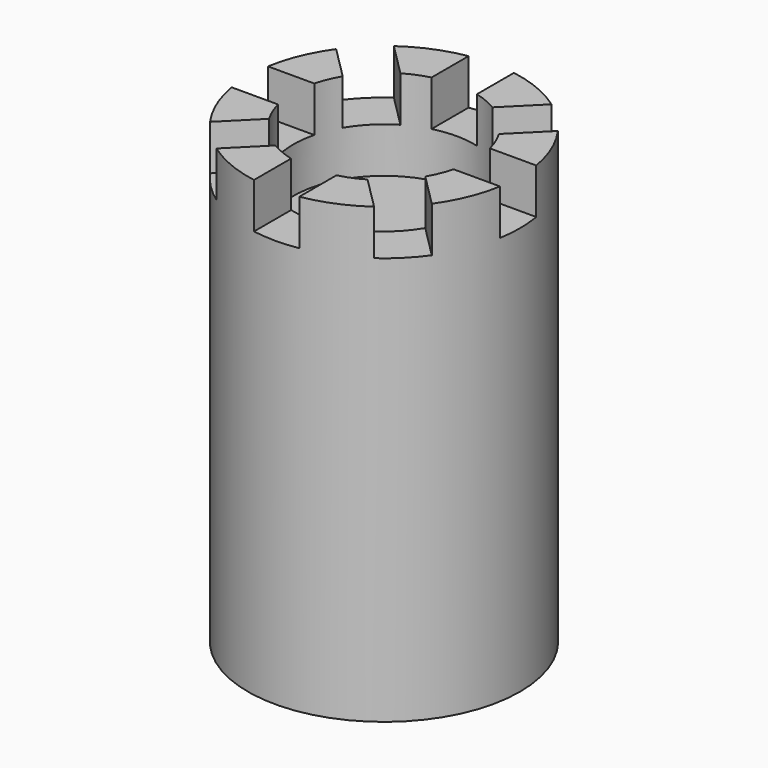
from build123d import *

# Parameters (mm, degrees)
BOX_W             = 20
BOX_H             = 10
BOX_DEPTH         = 10
ARRAY_COUNT       = 8
CYLINDER001_R     = 20
CYLINDER001_DEPTH = 50
CYLINDER_R        = 30
CYLINDER_DEPTH    = 100


with BuildPart() as obj1:
    # Box → Box (new body)
    with BuildSketch(Plane(origin=(15, -5, 90), x_dir=(1, 0, 0), z_dir=(0, 0, 1))):
        with Locations((10, 5)):
            Rectangle(BOX_W, BOX_H)
    extrude(amount=BOX_DEPTH)

    # Array: obj1 ×8 about axis
    array_axis = Axis((0, 0, 1), (0, 0, 1))


with BuildPart() as obj1_1:
    add(obj1.part)
    for i in range(1, ARRAY_COUNT):
        add(obj1.part.rotate(array_axis, i * 360 / ARRAY_COUNT))


with BuildPart() as cilindre001:
    # Cylinder001 → Cylinder001 (new body)
    with BuildSketch(Plane.XY.offset(80)):
        Circle(CYLINDER001_R)
    extrude(amount=CYLINDER001_DEPTH)


with BuildPart() as tower:
    # Cylinder → Cylinder (new body)
    with BuildSketch(Plane.XY):
        Circle(CYLINDER_R)
    extrude(amount=CYLINDER_DEPTH)

    # Cut: cut Cilindre001
    add(cilindre001.part, mode=Mode.SUBTRACT)

    # Cut001: cut obj1
    add(obj1_1.part, mode=Mode.SUBTRACT)


solid = tower.part
